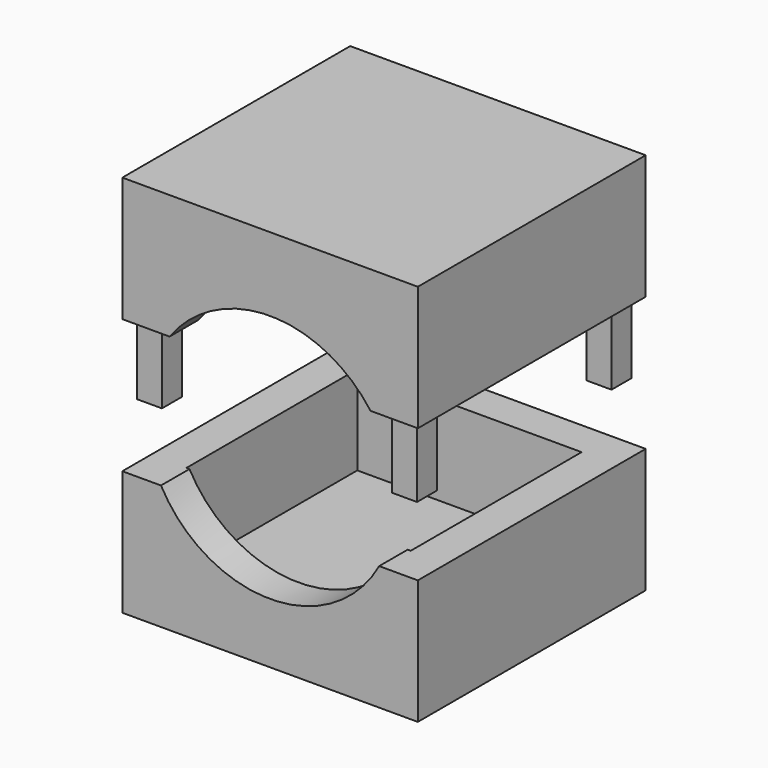
from build123d import *

# Parameters (mm, degrees)
F0_W     = 105.41
F0_H     = 44.45
F1_DEPTH = 50.8
F2_T     = -12.7
F2_2_T   = -12.7
F4_DEPTH = 25.4
F6_DEPTH = 25.4
F7_W     = 8.89
F7_H     = 8.89
F8_DEPTH = 25.4


with BuildPart() as f1:
    # F0 (on Front) → F1 (new body, symmetric)
    with BuildSketch(Plane.XZ):
        with Locations((0, 48.5045666443)):
            Rectangle(F0_W, F0_H)
    extrude(amount=F1_DEPTH, both=True)

    # F2#2
    f2_2_openings = [f1.faces().sort_by_distance(p)[0] for p in [
        (0, 0, 26.279567),
    ]]
    offset(amount=F2_2_T, openings=f2_2_openings)

    # F3 (on face) → F4 (cut)
    with BuildSketch(Plane.XZ.offset(50.8)):
        with BuildLine():
            Line((-35.8495031623, 26.2795666443), (35.8495031623, 26.2795666443))
            ThreePointArc((35.8495031623, 26.2795666443), (0, 44.45), (-35.8495031623, 26.2795666443))
        make_face()
    extrude(amount=-F4_DEPTH, mode=Mode.SUBTRACT)

    # F7 (on face) → F8 (join)
    with BuildSketch(Plane(origin=(0, 0, 26.2795666443), x_dir=(1, 0, 0), z_dir=(0, 0, -1))):
        with Locations((-45.3745031623, 43.4054770315)):
            Rectangle(F7_W, F7_H)
        with Locations((-45.3644, -43.0876925516)):
            Rectangle(F7_W, F7_H)
        with Locations((45.3745031623, 43.1071132493)):
            Rectangle(F7_W, F7_H)
        with Locations((45.3644, -43.6330601501)):
            Rectangle(F7_W, F7_H)
    extrude(amount=F8_DEPTH)


with BuildPart() as f1b:
    # F0 (on Front) → F1, piece 2 (new body, symmetric)
    with BuildSketch(Plane.XZ):
        with Locations((0, -43.69915935)):
            Rectangle(F0_W, F0_H)
    extrude(amount=F1_DEPTH, both=True)

    # F2
    f2_openings = [f1b.faces().sort_by_distance(p)[0] for p in [
        (0, 0, -21.474159),
    ]]
    offset(amount=F2_T, openings=f2_openings)

    # F5 (on face) → F6 (cut)
    with BuildSketch(Plane.XZ.offset(50.8)):
        with BuildLine():
            Line((38.9186713572, -21.47415935), (-38.9186713572, -21.47415935))
            ThreePointArc((-38.9186713572, -21.47415935), (0, -44.45), (38.9186713572, -21.47415935))
        make_face()
    extrude(amount=-F6_DEPTH, mode=Mode.SUBTRACT)


solid = Compound([f1.part, f1b.part])
